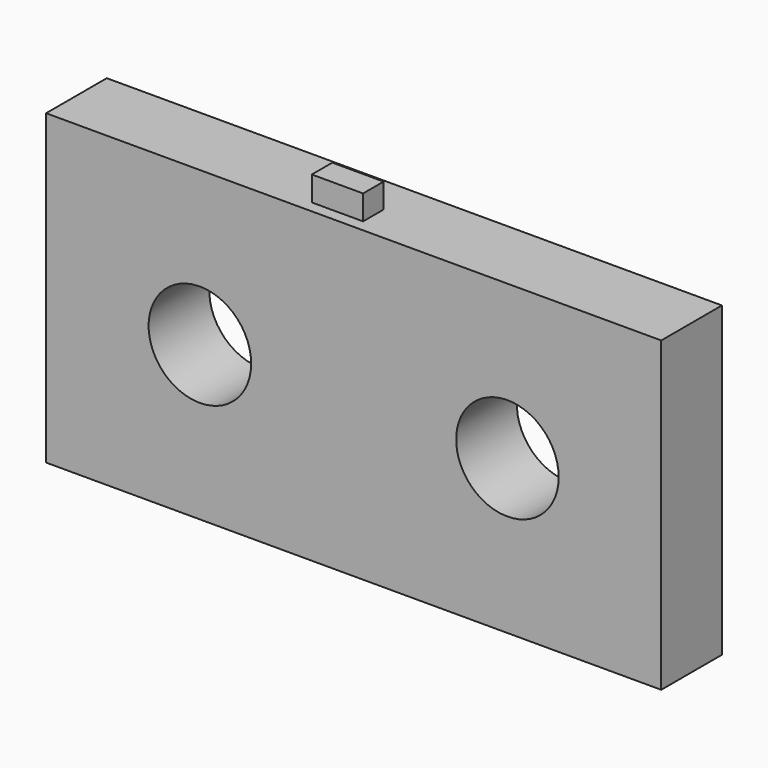
from build123d import *

# Parameters (mm, degrees)
F0_W     = 76.2
F0_H     = 76.2
F0_R     = 12.7
F2_DEPTH = 18.796
F1_W     = 12.7
F1_H     = 6.35
F3_DEPTH = 44.196


with BuildPart() as f2:
    # F0 (on Front) → F2 (new body)
    with BuildSketch(Plane.XZ):
        with Locations((38.1, 0)):
            Rectangle(F0_W, F0_H)
        with Locations((38.1, 0)):
            Circle(F0_R, mode=Mode.SUBTRACT)
        with Locations((-38.1, 0)):
            Rectangle(F0_W, F0_H)
        with Locations((-38.1, 0)):
            Circle(F0_R, mode=Mode.SUBTRACT)
    extrude(amount=F2_DEPTH)

    # F1 (on Top) → F3 (join)
    with BuildSketch(Plane.XY):
        with Locations((-6.35, -12.7)):
            Rectangle(F1_W, F1_H)
    extrude(amount=F3_DEPTH)


solid = f2.part
